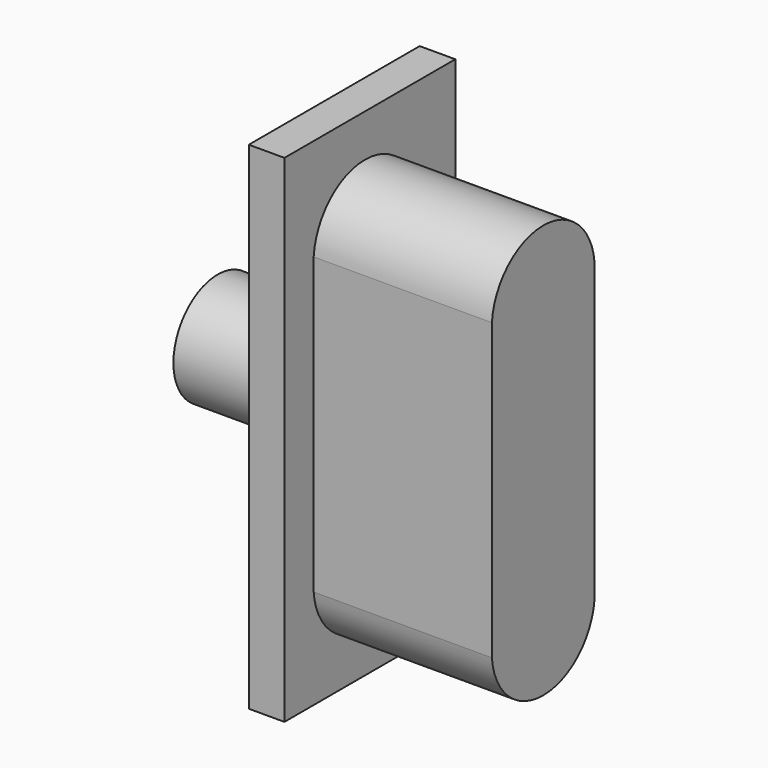
from build123d import *

# Parameters (mm, degrees)
F0_W     = 2.995658
F0_H     = 6.965485
F1_DEPTH = 0.5
F2_DEPTH = 3
F3_R     = 0.776769
F4_DEPTH = 1.6


with BuildPart() as f1:
    # F0 (on Right) → F1 (new body)
    with BuildSketch(Plane.YZ):
        with Locations((0.042688, 0.007851)):
            Rectangle(F0_W, F0_H)
        with BuildLine():
            Line((-0.942557, -2.078591), (-0.942557, 2.05963))
            ThreePointArc((-0.942557, 2.05963), (-0.04445, 2.894599), (0.857747, 2.06405))
            Line((0.857747, 2.06405), (0.857747, -2.077991))
            ThreePointArc((0.857747, -2.077991), (-0.042128, -2.908563), (-0.942557, -2.078591))
        make_face(mode=Mode.SUBTRACT)
    extrude(amount=F1_DEPTH)


with BuildPart() as f2:
    # F0 (on Right) → F2 (new body)
    with BuildSketch(Plane.YZ):
        with BuildLine():
            ThreePointArc((0.857747, 2.06405), (-0.04445, 2.894599), (-0.942557, 2.05963))
            Line((-0.942557, 2.05963), (-0.942557, -2.078591))
            ThreePointArc((-0.942557, -2.078591), (-0.042128, -2.908563), (0.857747, -2.077991))
            Line((0.857747, -2.077991), (0.857747, 2.06405))
        make_face()
    extrude(amount=F2_DEPTH)

    # F3 (on face) → F4 (join)
    with BuildSketch(Plane(origin=(0, 0, 0), x_dir=(0, -1, 0), z_dir=(-1, 0, 0))):
        Circle(F3_R)
    extrude(amount=F4_DEPTH)


solid = Compound([f1.part, f2.part])
